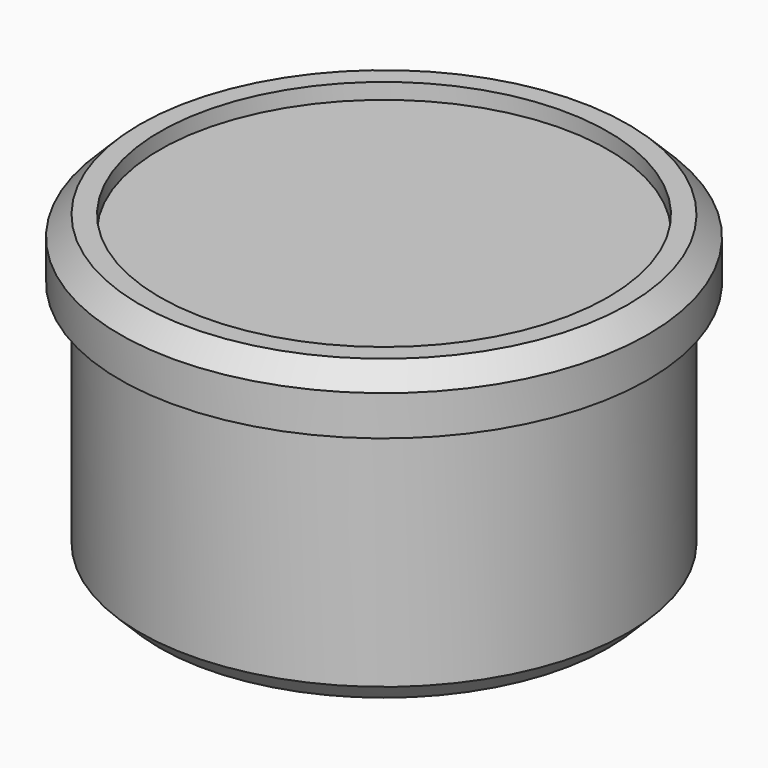
from build123d import *

# Parameters (mm, degrees)
F2_R     = 22.5
F3_DEPTH = 5.0832424313
F4_R     = 22.5
F5_DEPTH = 0.1
F7_R     = 22.5
F8_DEPTH = 0.75


with BuildPart() as f1:
    # F0 (on Front) → F1 (revolve)
    with BuildSketch(Plane.XZ):
        Polygon((0, 6), (0, -25), (22.5, -25), (24.5, -23), (24.5, 0), (26.5, 0), (26.5, 4), (24.5, 6), align=None)
    revolve(axis=Axis((0, 0, -9.5), (0, 0, -1)))

    # F2 (on face) → F3 (cut)
    with BuildSketch(Plane.XY.offset(6)):
        Circle(F2_R)
    extrude(amount=-F3_DEPTH, mode=Mode.SUBTRACT)


with BuildPart() as f5:
    # F4 (on face) → F5 (new body)
    with BuildSketch(Plane.XY.offset(0.9167575687)):
        Circle(F4_R)
    extrude(amount=F5_DEPTH)


with BuildPart() as f8:
    # F7 (on offset) → F8 (new body)
    with BuildSketch(Plane.XY.offset(3.6660126656)):
        Circle(F7_R)
    extrude(amount=F8_DEPTH)


solid = Compound([f1.part, f5.part, f8.part])
